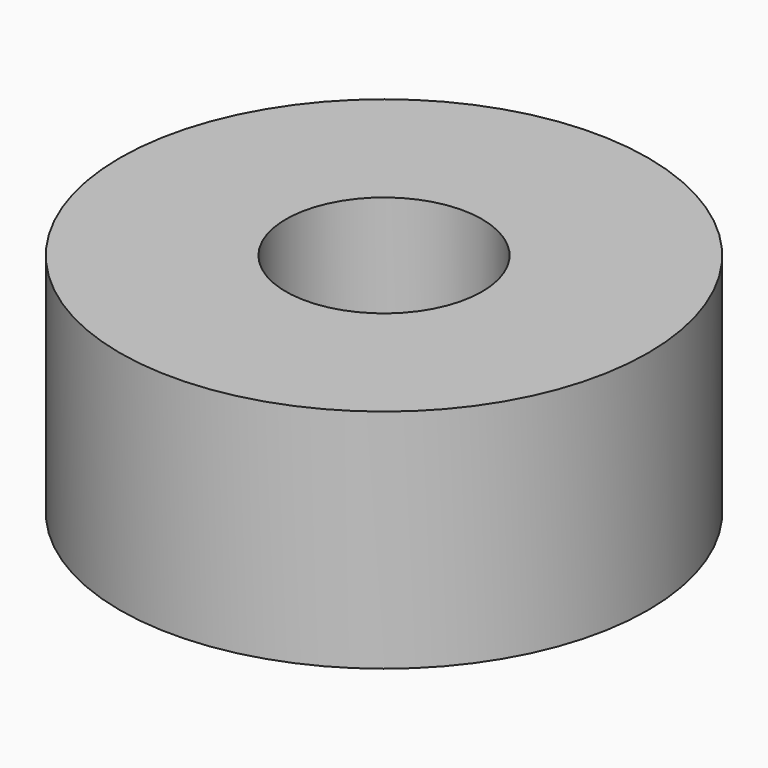
from build123d import *

# Parameters (mm, degrees)
CYLINDER044_R     = 2.6
CYLINDER044_DEPTH = 12
CYLINDER041_R     = 7
CYLINDER041_DEPTH = 6


with BuildPart() as obj1:
    # Cylinder044 → Cylinder044 (new body)
    with BuildSketch(Plane.XY.offset(13)):
        Circle(CYLINDER044_R)
    extrude(amount=CYLINDER044_DEPTH)


with BuildPart() as cut005:
    # Cylinder041 → Cylinder041 (new body)
    with BuildSketch(Plane.XY.offset(13)):
        Circle(CYLINDER041_R)
    extrude(amount=CYLINDER041_DEPTH)

    # Cut005: cut obj1
    add(obj1.part, mode=Mode.SUBTRACT)


solid = cut005.part
